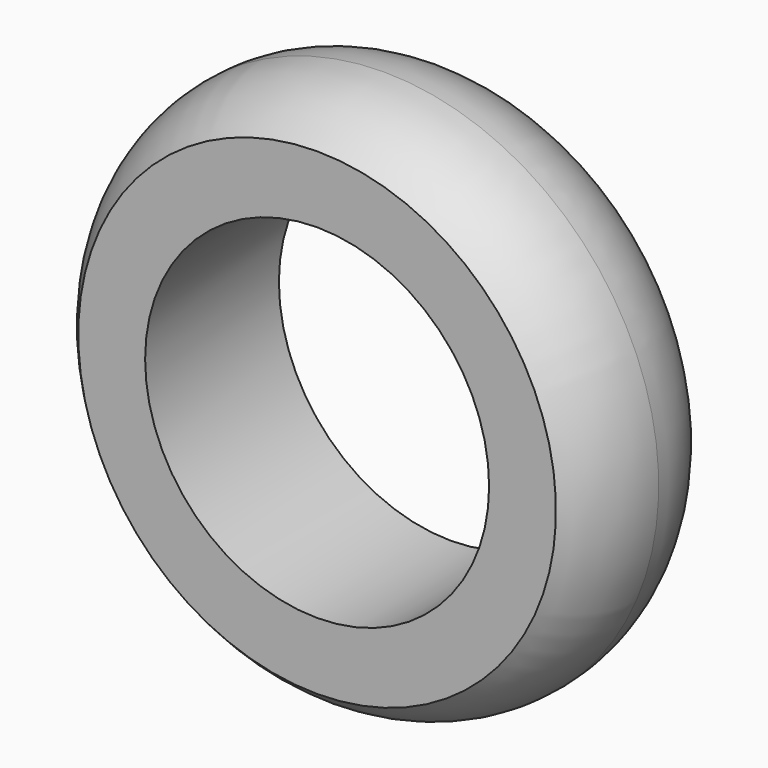
from build123d import *


with BuildPart() as f1:
    # F0 (on Right) → F1 (revolve)
    with BuildSketch(Plane.YZ):
        with BuildLine():
            Line((-3.5, 10), (-3.5, 7.2))
            Line((-3.5, 7.2), (3.5, 7.2))
            Line((3.5, 7.2), (3.5, 10))
            ThreePointArc((3.5, 10), (1.903943, 11.109201), (0, 11.5))
            ThreePointArc((0, 11.5), (-1.903943, 11.109201), (-3.5, 10))
        make_face()
    revolve(axis=Axis((0, 0, 0), (0, 1, 0)))


solid = f1.part
